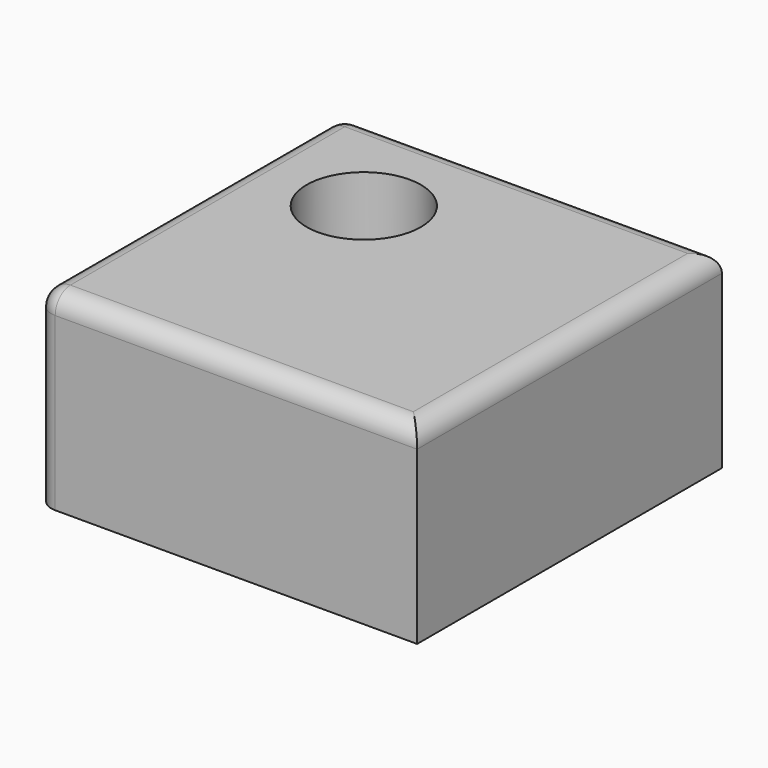
from build123d import *

# Parameters (mm, degrees)
F0_W     = 100
F0_H     = 100
F1_DEPTH = 50
F2_R     = 15
F3_DEPTH = 50.001
F4_R     = 5
F5_R     = 5


with BuildPart() as f1:
    # F0 (on Top) → F1 (new body)
    with BuildSketch(Plane.XY):
        Rectangle(F0_W, F0_H)
    extrude(amount=F1_DEPTH)

    # F2 (on face) → F3 (cut, through all)
    with BuildSketch(Plane.XY.offset(50)):
        with Locations((-20, 20)):
            Circle(F2_R)
    extrude(amount=-F3_DEPTH, mode=Mode.SUBTRACT)

    # F4
    f4_edges = [f1.edges().sort_by_distance(p)[0] for p in [
        (-50, 0, 50),
    ]]
    fillet(f4_edges, radius=F4_R)

    # F5
    f5_edges = [f1.edges().sort_by_distance(p)[0] for p in [
        (2.5, -50, 50),
        (50, 0, 50),
        (2.5, 50, 50),
    ]]
    fillet(f5_edges, radius=F5_R)


solid = f1.part
